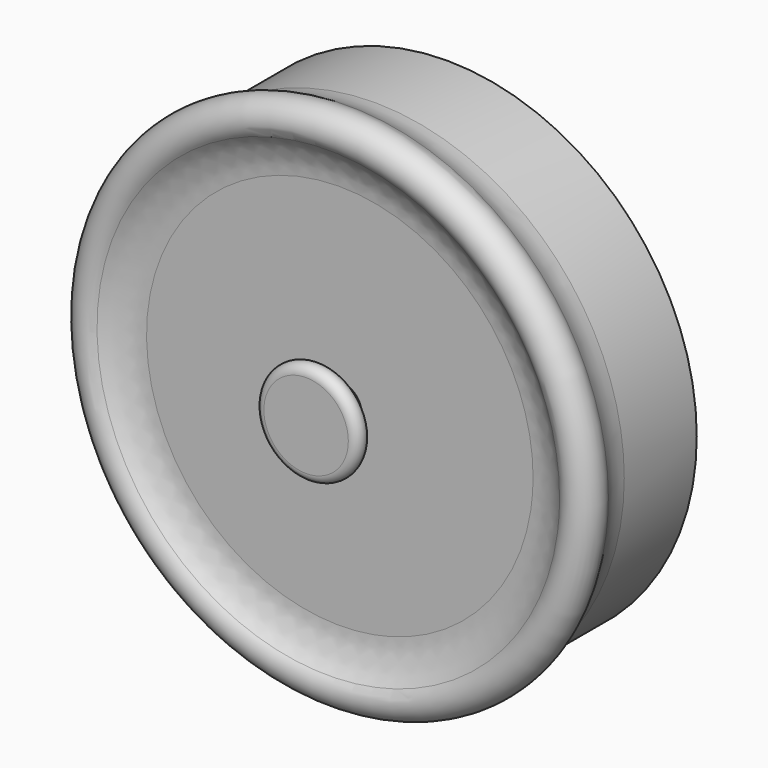
from build123d import *

# Parameters (mm, degrees)
F3_R = 12.7


with BuildPart() as f2:
    # F2: sweep along a path in F0
    with BuildLine(Plane.XZ) as f2_path:
        CenterArc((0, 0), 54.8218146476, 0, 360)
    # F1 (on Top) → F2 (sweep)
    with BuildSketch(Plane.XY):
        with BuildLine():
            Line((52.7820847929, 29.6338945627), (52.7820847929, 4.0803265109))
            ThreePointArc((52.7820847929, 4.0803265109), (51.5222837032, 3.4758064814), (50.5267530332, 2.4952648267))
            Line((50.5267530332, 2.4952648267), (0, 2.4952648267))
            Line((0, 2.4952648267), (0, 0))
            Line((0, 0), (49.7167389334, 0))
            ThreePointArc((49.7167389334, 0), (56.481358214, -3.4230184535), (55.232770741, 4.0548260666))
            Line((55.232770741, 4.0548260666), (55.232770741, 29.6338945627))
            Line((55.232770741, 29.6338945627), (52.7820847929, 29.6338945627))
        make_face()
    sweep(path=f2_path.line)

    # F3
    f3_edges = [f2.edges().sort_by_distance(p)[0] for p in [
        (-49.716739, 0, 0),
        (-55.232771, 4.054826, 0),
    ]]
    fillet(f3_edges, radius=F3_R)

    # F4 (on Top) → F5 (revolve)
    with BuildSketch(Plane.XY):
        with BuildLine():
            ThreePointArc((9.6023036167, -5.3312182426), (6.240394951, -3.5473612375), (4.8616984859, 0))
            Line((4.8616984859, 0), (0, 0))
            Line((0, 0), (0, -9.3137091026))
            Line((0, -9.3137091026), (9.3396855518, -9.3137091026))
            ThreePointArc((9.3396855518, -9.3137091026), (11.3352557521, -7.4453989605), (9.6023036167, -5.3312182426))
        make_face()
    revolve(axis=Axis((0, -4.6568545513, 0), (0, -1, 0)))


solid = f2.part
